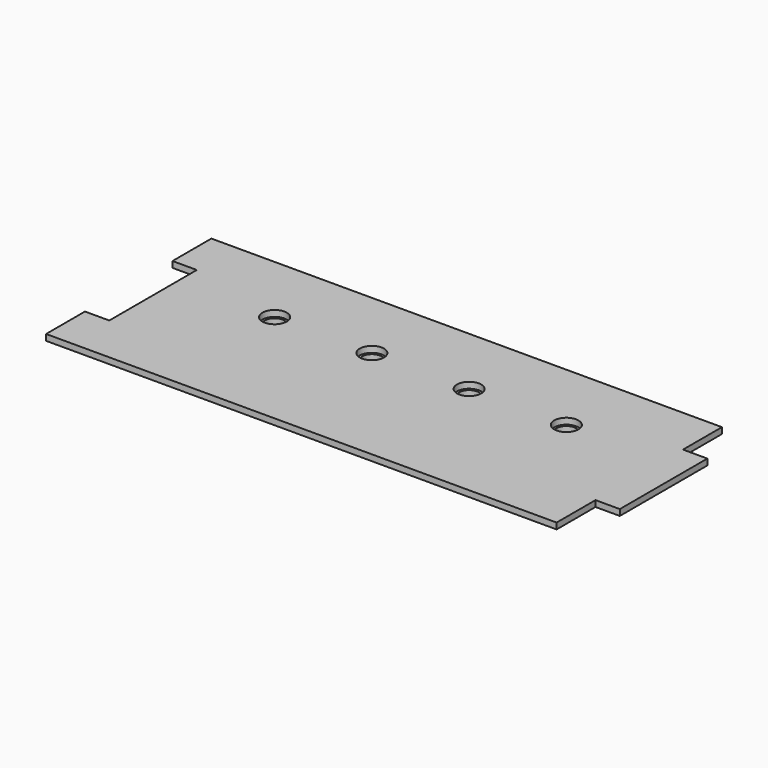
from build123d import *

# Parameters (mm, degrees)
F0_W     = 6.35
F0_H     = 12.7
F1_DEPTH = 1.5875
F2_W     = 93.517256
F2_H     = 11.267142
F2_R     = 3.175
F3_DEPTH = 1.5875
F4_R     = 3.175
F4_R_2   = 2.54
F5_DEPTH = 1.5875


with BuildPart() as f1:
    # F0 (on Top) → F1 (new body)
    with BuildSketch(Plane.XY):
        with BuildLine():
            Line((0, 12.7), (0, 0))
            Line((0, 0), (127, 0))
            Line((127, 0), (127, 12.7))
            Line((127, 12.7), (127, 34.925))
            Line((127, 34.925), (104.775, 34.925))
            ThreePointArc((104.775, 34.925), (101.6, 31.75), (98.425, 34.925))
            Line((98.425, 34.925), (79.375, 34.925))
            ThreePointArc((79.375, 34.925), (76.2, 31.75), (73.025, 34.925))
            Line((73.025, 34.925), (53.975, 34.925))
            ThreePointArc((53.975, 34.925), (50.8, 31.75), (47.625, 34.925))
            Line((47.625, 34.925), (28.575, 34.925))
            ThreePointArc((28.575, 34.925), (25.4, 31.75), (22.225, 34.925))
            Line((22.225, 34.925), (0, 34.925))
            Line((0, 34.925), (0, 12.7))
        make_face()
        with Locations((-3.175, 6.35)):
            Rectangle(F0_W, F0_H)
        with Locations((-3.175, 47.625)):
            Rectangle(F0_W, F0_H)
        with BuildLine():
            Line((0, 41.275), (0, 34.925))
            Line((0, 34.925), (22.225, 34.925))
            ThreePointArc((22.225, 34.925), (25.4, 38.1), (28.575, 34.925))
            Line((28.575, 34.925), (47.625, 34.925))
            ThreePointArc((47.625, 34.925), (50.8, 38.1), (53.975, 34.925))
            Line((53.975, 34.925), (73.025, 34.925))
            ThreePointArc((73.025, 34.925), (76.2, 38.1), (79.375, 34.925))
            Line((79.375, 34.925), (98.425, 34.925))
            ThreePointArc((98.425, 34.925), (101.6, 38.1), (104.775, 34.925))
            Line((104.775, 34.925), (127, 34.925))
            Line((127, 34.925), (127, 41.275))
            Line((127, 41.275), (127, 53.975))
            Line((127, 53.975), (0, 53.975))
            Line((0, 53.975), (0, 41.275))
        make_face()
        Polygon((127, 34.925), (127, 12.7), (133.35, 12.7), (133.35, 41.275), (127, 41.275), align=None)
    extrude(amount=F1_DEPTH)

    # F2 (on face) → F3 (join)
    with BuildSketch(Plane(origin=(0, 0, 0), x_dir=(1, 0, 0), z_dir=(0, 0, -1))):
        with Locations((62.18549, -34.874498)):
            Rectangle(F2_W, F2_H)
        with Locations((25.4, -34.925)):
            Circle(F2_R, mode=Mode.SUBTRACT)
        with Locations((50.8, -34.925)):
            Circle(F2_R, mode=Mode.SUBTRACT)
        with Locations((76.2, -34.925)):
            Circle(F2_R, mode=Mode.SUBTRACT)
        with Locations((101.6, -34.925)):
            Circle(F2_R, mode=Mode.SUBTRACT)
    extrude(amount=F3_DEPTH)

    # F4 (on face) → F5 (join)
    with BuildSketch(Plane(origin=(0, 0, -1.5875), x_dir=(1, 0, 0), z_dir=(0, 0, -1))):
        with Locations((101.6, -34.925)):
            Circle(F4_R)
        with Locations((101.6, -34.925)):
            Circle(F4_R_2, mode=Mode.SUBTRACT)
        with Locations((76.2, -34.925)):
            Circle(F4_R)
        with Locations((76.2, -34.925)):
            Circle(F4_R_2, mode=Mode.SUBTRACT)
        with Locations((50.8, -34.925)):
            Circle(F4_R)
        with Locations((50.8, -34.925)):
            Circle(F4_R_2, mode=Mode.SUBTRACT)
        with Locations((25.4, -34.925)):
            Circle(F4_R)
        with Locations((25.4, -34.925)):
            Circle(F4_R_2, mode=Mode.SUBTRACT)
    extrude(amount=-F5_DEPTH)


solid = f1.part
